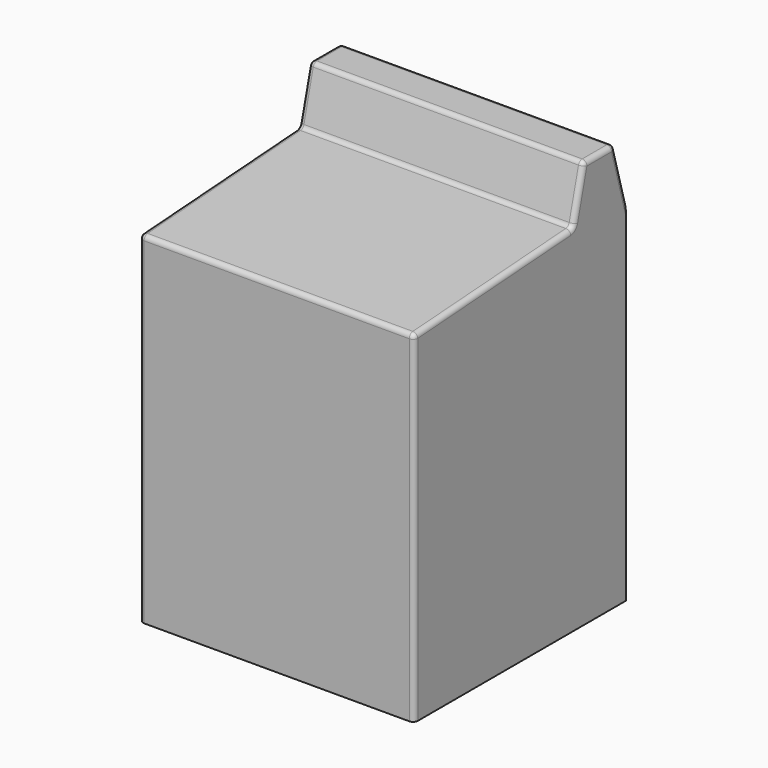
from build123d import *

# Parameters (mm, degrees)
F0_W     = 736.6
F0_H     = 711.2
F1_DEPTH = 1092.2
F3_DEPTH = 736.601
F4_R     = 12.7


with BuildPart() as f1:
    # F0 (on Top) → F1 (new body)
    with BuildSketch(Plane.XY):
        with Locations((368.3, -355.6)):
            Rectangle(F0_W, F0_H)
    extrude(amount=F1_DEPTH)

    # F2 (on face) → F3 (cut, through all)
    with BuildSketch(Plane(origin=(0, 0, 0), x_dir=(0, -1, 0), z_dir=(-1, 0, 0))):
        Polygon((711.2, 1092.2), (141.5470689535, 1092.2), (177.5199323893, 950.9692788124), (711.2, 914.996445179), align=None)
        Polygon((0, 1092.2), (0, 950.9692788124), (39.6239757538, 1092.2), align=None)
    extrude(amount=-F3_DEPTH, mode=Mode.SUBTRACT)

    # F4
    f4_edges = [f1.edges().sort_by_distance(p)[0] for p in [
        (0, -711.2, 457.498223),
        (736.6, -711.2, 457.498223),
        (368.3, -711.2, 914.996445),
        (0, -444.359966, 932.982862),
        (736.6, -444.359966, 932.982862),
        (368.3, -177.519932, 950.969279),
        (368.3, -141.547069, 1092.2),
        (368.3, -39.623976, 1092.2),
        (0, -159.533501, 1021.584639),
        (736.6, -159.533501, 1021.584639),
        (0, -19.811988, 1021.584639),
        (736.6, -90.585522, 1092.2),
        (736.6, -19.811988, 1021.584639),
        (0, -90.585522, 1092.2),
    ]]
    fillet(f4_edges, radius=F4_R)


solid = f1.part
